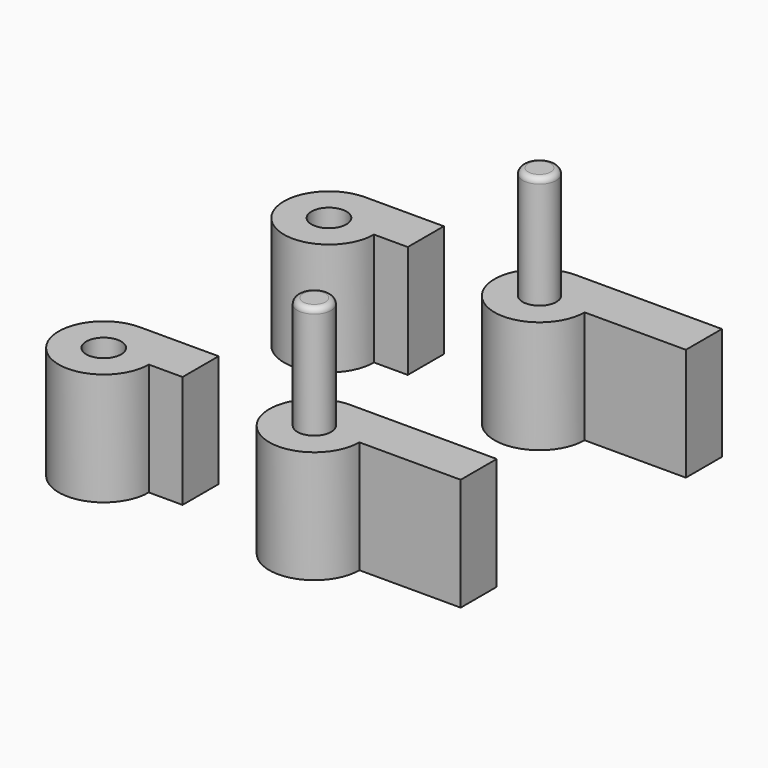
from build123d import *

# Parameters (mm, degrees)
F0_R      = 3.1
F1_DEPTH  = 20
F4_W      = 8
F4_H      = 20
F5_DEPTH  = 12
F7_R      = 3.1
F8_DEPTH  = 20
F9_R      = 3
F10_DEPTH = 20
F11_R     = 1


with BuildPart() as f1:
    # F0 (on Top) → F1 (new body)
    with BuildSketch(Plane.XY):
        with BuildLine():
            Line((14, 8), (0, 8))
            ThreePointArc((0, 8), (-5.6568542495, -5.6568542495), (8, 0))
            Line((8, 0), (14, 0))
            Line((14, 0), (14, 8))
        make_face()
        Circle(F0_R, mode=Mode.SUBTRACT)
    extrude(amount=F1_DEPTH)


with BuildPart() as f2_1:
    # F2: copy of F1
    add(f1.part.moved(Location((111.7, 0, 0))))

    # F4 (on offset) → F5 (join)
    with BuildSketch(Plane.YZ.offset(125.7)):
        with Locations((4, 10)):
            Rectangle(F4_W, F4_H)
    extrude(amount=F5_DEPTH)

    # F7 (on offset) → F8 (join)
    with BuildSketch(Plane.XY.offset(20)):
        with Locations((111.7, 0)):
            Circle(F7_R)
    extrude(amount=-F8_DEPTH)

    # F9 (on offset) → F10 (join)
    with BuildSketch(Plane.XY.offset(20)):
        with Locations((111.7, 0)):
            Circle(F9_R)
    extrude(amount=F10_DEPTH)

    # F11
    f11_edges = [f2_1.edges().sort_by_distance(p)[0] for p in [
        (108.7, 0, 40),
    ]]
    fillet(f11_edges, radius=F11_R)


with BuildPart() as f2_1_1:
    # F12: moved
    add(f2_1.part.moved(Location((-74.3, 0, 0))))


with BuildPart() as f13_1:
    # F13: copy of F1
    add(f1.part.moved(Location((0, 50, 0))))


with BuildPart() as f14_1:
    # F14: copy of F2_1
    add(f2_1_1.part.moved(Location((0, 50, 0))))


solid = Compound([f1.part, f2_1_1.part, f13_1.part, f14_1.part])
